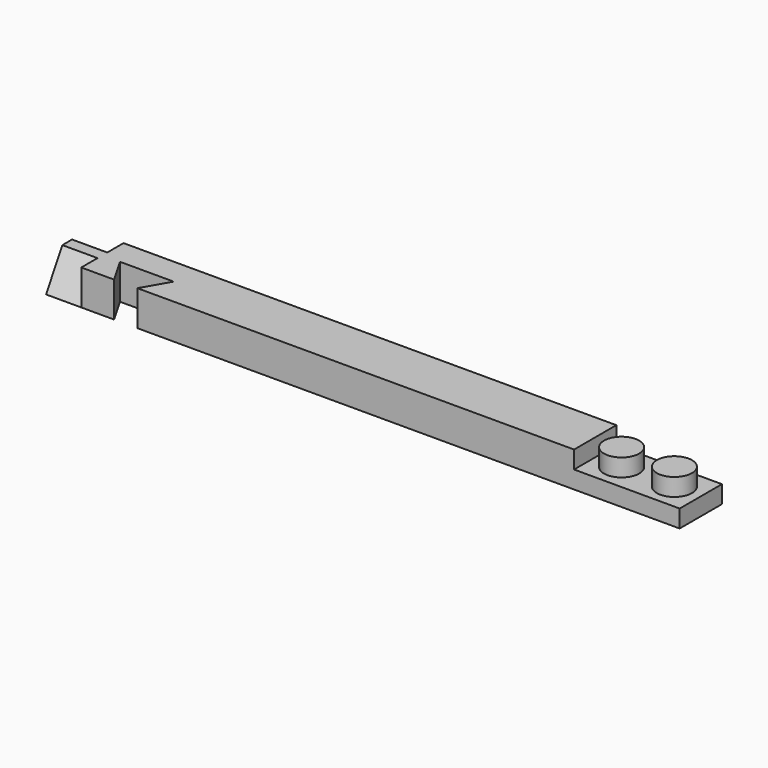
from build123d import *

# Parameters (mm, degrees)
SKETCH_W        = 170
SKETCH_H        = 15
PAD_DEPTH       = 10
SKETCH001_W     = 35
SKETCH001_H     = 25
POCKET_DEPTH    = 5
SKETCH002_R     = 5
PAD001_DEPTH    = 5
PAD002_DEPTH    = 10
POCKET001_DEPTH = 10


with BuildPart() as part:
    # Sketch → Pad (new body)
    with BuildSketch(Plane.XY):
        with Locations((-20.728933, -1.58076)):
            Rectangle(SKETCH_W, SKETCH_H)
    extrude(amount=PAD_DEPTH)

    # Sketch001 (on Face6 of Pad) → Pocket (cut)
    with BuildSketch(Plane.XY.offset(10)):
        with Locations((51.771067, -1.58076)):
            Rectangle(SKETCH001_W, SKETCH001_H)
    extrude(amount=-POCKET_DEPTH, mode=Mode.SUBTRACT)

    # Sketch002 (on Face7 of Pocket) → Pad001 (join)
    with BuildSketch(Plane.XY.offset(5)):
        with Locations((56.771067, -1.58076)):
            Circle(SKETCH002_R)
        with Locations((41.771067, -1.58076)):
            Circle(SKETCH002_R)
    extrude(amount=PAD001_DEPTH)

    # Sketch003 (on Face1 of Pad001) → Pad002 (join)
    with BuildSketch(Plane(origin=(-105.728933, 0, 0), x_dir=(0, -1, 0), z_dir=(-1, 0, 0))):
        Polygon((-5.91924, 0), (-0.145737, 10), (3.307257, 10), (9.08076, 0), align=None)
    extrude(amount=PAD002_DEPTH)

    # Sketch004 (on Face3 of Pad002) → Pocket001 (cut)
    with BuildSketch(Plane.XY.offset(10)):
        Polygon((-93.103933, -14.787648), (-100.728933, -1.58076), (-85.478933, -1.58076), align=None)
    extrude(amount=-POCKET001_DEPTH, mode=Mode.SUBTRACT)


solid = part.part
